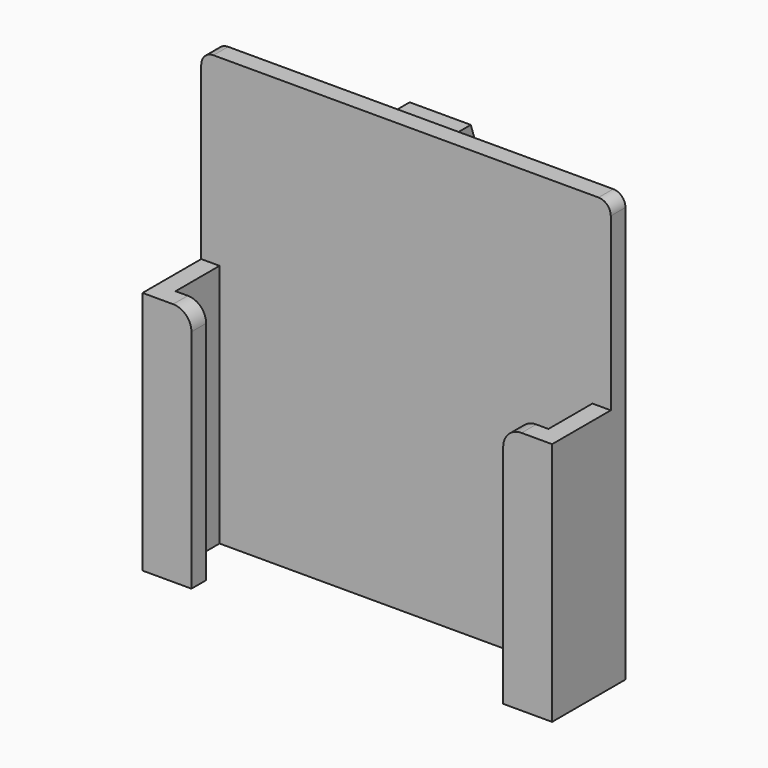
from build123d import *

# Parameters (mm, degrees)
F0_W     = 10
F0_H     = 1
F1_DEPTH = 70
F0_W_2   = 3
F0_H_2   = 9
F2_DEPTH = 40
F3_R     = 2
F4_R     = 3
F0_H_3   = 14
F5_DEPTH = 69
F6_SIZE2 = 10
F6_SIZE  = 30


with BuildPart() as f1:
    # F0 (on Top) → F1 (new body)
    with BuildSketch(Plane.XY):
        Polygon((33.5, 20.7614854574), (33.5, 23.7614854574), (32.5, 23.7614854574), (5, 23.7614854574), (5, 22.7614854574), (-5, 22.7614854574), (-5, 23.7614854574), (-33.5, 23.7614854574), (-33.5, 20.7614854574), (-30.5, 20.7614854574), (30.5, 20.7614854574), align=None)
        with Locations((0, 23.2614854574)):
            Rectangle(F0_W, F0_H)
    extrude(amount=F1_DEPTH)

    # F0 (on Top) → F2 (join)
    with BuildSketch(Plane.XY):
        Polygon((-25.5, 11.7614854574), (-30.5, 11.7614854574), (-33.5, 11.7614854574), (-33.5, 8.7614854574), (-25.5, 8.7614854574), align=None)
        with Locations((-32, 16.2614854574)):
            Rectangle(F0_W_2, F0_H_2)
        Polygon((33.5, 8.7614854574), (33.5, 11.7614854574), (30.5, 11.7614854574), (25.5, 11.7614854574), (25.5, 8.7614854574), align=None)
        with Locations((32, 16.2614854574)):
            Rectangle(F0_W_2, F0_H_2)
    extrude(amount=F2_DEPTH)

    # F3
    f3_edges = [f1.edges().sort_by_distance(p)[0] for p in [
        (33.5, 22.261485, 70),
        (-33.5, 22.261485, 70),
    ]]
    fillet(f3_edges, radius=F3_R)

    # F4
    f4_edges = [f1.edges().sort_by_distance(p)[0] for p in [
        (25.5, 10.261485, 40),
        (-25.5, 10.261485, 40),
    ]]
    fillet(f4_edges, radius=F4_R)

    # F0 (on Top) → F5 (join)
    with BuildSketch(Plane.XY):
        with Locations((0, 30.7614854574)):
            Rectangle(F0_W, F0_H_3)
    extrude(amount=F5_DEPTH)

    # F6
    f6_edges = [f1.edges().sort_by_distance(p)[0] for p in [
        (0, 37.761485, 69),
    ]]
    f6_side = f1.faces().sort_by_distance((0, 37.761485, 34.5))[0]
    chamfer(f6_edges, length=F6_SIZE, length2=F6_SIZE2, reference=f6_side)


solid = f1.part
